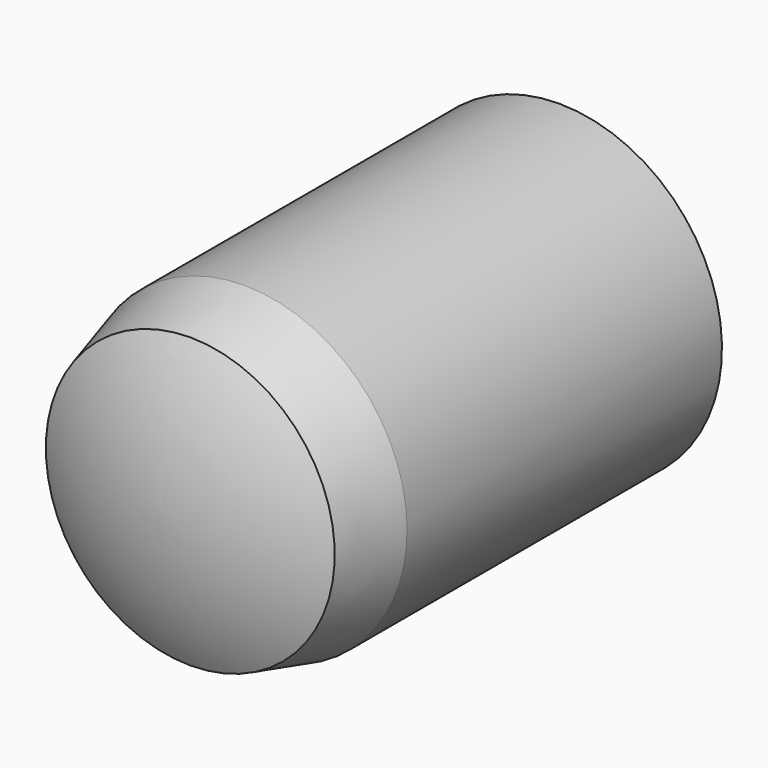
from build123d import *


with BuildPart() as part:
    # Sketch → Revolution (revolve)
    with BuildSketch(Plane.YZ):
        with BuildLine():
            ThreePointArc((0, 5.330127), (-0.970305, 2.743185), (-1.3, 0))
            Line((-1.3, 0), (18.7, 0))
            ThreePointArc((18.7, 0), (18.273093, 3.114862), (17.023858, 6))
            Line((2.5, 6), (17.023858, 6))
            Line((0, 5.330127), (2.5, 6))
        make_face()
    revolve(axis=Axis((0, 0, 0), (0, 1, 0)))


solid = part.part
